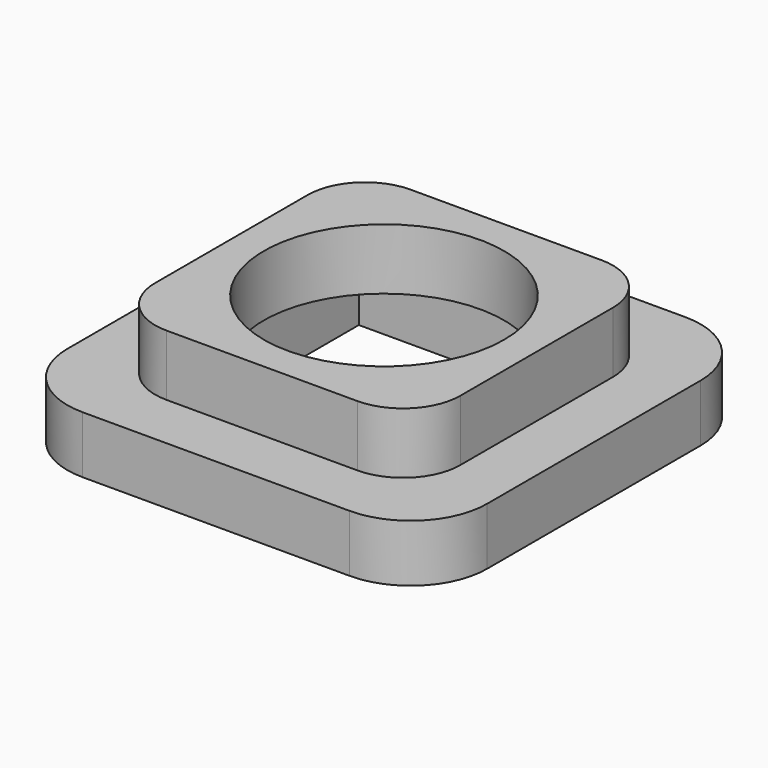
from build123d import *

# Parameters (mm, degrees)
F0_W     = 6.6
F0_H     = 6.6
F0_R     = 3.15
F1_DEPTH = 1.5
F2_DEPTH = 3.1
F3_DEPTH = 3.101
F4_DEPTH = 1.5


with BuildPart() as f1:
    # F0 (on Top) → F1 (new body)
    with BuildSketch(Plane.XY):
        with BuildLine():
            Line((3.5, 5.5), (-3.5, 5.5))
            ThreePointArc((-3.5, 5.5), (-4.914214, 4.914214), (-5.5, 3.5))
            Line((-5.5, 3.5), (-5.5, -3.5))
            ThreePointArc((-5.5, -3.5), (-4.914214, -4.914214), (-3.5, -5.5))
            Line((-3.5, -5.5), (3.5, -5.5))
            ThreePointArc((3.5, -5.5), (4.914214, -4.914214), (5.5, -3.5))
            Line((5.5, -3.5), (5.5, 3.5))
            ThreePointArc((5.5, 3.5), (4.914214, 4.914214), (3.5, 5.5))
        make_face()
        with BuildLine():
            ThreePointArc((-4, 2.5), (-3.56066, 3.56066), (-2.5, 4))
            Line((-2.5, 4), (2.5, 4))
            ThreePointArc((2.5, 4), (3.56066, 3.56066), (4, 2.5))
            Line((4, 2.5), (4, -2.5))
            ThreePointArc((4, -2.5), (3.56066, -3.56066), (2.5, -4))
            Line((2.5, -4), (-2.5, -4))
            ThreePointArc((-2.5, -4), (-3.56066, -3.56066), (-4, -2.5))
            Line((-4, -2.5), (-4, 2.5))
        make_face(mode=Mode.SUBTRACT)
        with BuildLine():
            Line((2.5, 4), (-2.5, 4))
            ThreePointArc((-2.5, 4), (-3.56066, 3.56066), (-4, 2.5))
            Line((-4, 2.5), (-4, -2.5))
            ThreePointArc((-4, -2.5), (-3.56066, -3.56066), (-2.5, -4))
            Line((-2.5, -4), (2.5, -4))
            ThreePointArc((2.5, -4), (3.56066, -3.56066), (4, -2.5))
            Line((4, -2.5), (4, 2.5))
            ThreePointArc((4, 2.5), (3.56066, 3.56066), (2.5, 4))
        make_face()
        Rectangle(F0_W, F0_H, mode=Mode.SUBTRACT)
        Rectangle(F0_W, F0_H)
        Circle(F0_R, mode=Mode.SUBTRACT)
        Circle(F0_R)
    extrude(amount=F1_DEPTH)

    # F0 (on Top) → F2 (join)
    with BuildSketch(Plane.XY):
        with BuildLine():
            Line((2.5, 4), (-2.5, 4))
            ThreePointArc((-2.5, 4), (-3.56066, 3.56066), (-4, 2.5))
            Line((-4, 2.5), (-4, -2.5))
            ThreePointArc((-4, -2.5), (-3.56066, -3.56066), (-2.5, -4))
            Line((-2.5, -4), (2.5, -4))
            ThreePointArc((2.5, -4), (3.56066, -3.56066), (4, -2.5))
            Line((4, -2.5), (4, 2.5))
            ThreePointArc((4, 2.5), (3.56066, 3.56066), (2.5, 4))
        make_face()
        Rectangle(F0_W, F0_H, mode=Mode.SUBTRACT)
        Rectangle(F0_W, F0_H)
        Circle(F0_R, mode=Mode.SUBTRACT)
        Circle(F0_R)
    extrude(amount=F2_DEPTH)

    # F0 (on Top) → F3 (cut, through all)
    with BuildSketch(Plane.XY):
        Circle(F0_R)
    extrude(amount=F3_DEPTH, mode=Mode.SUBTRACT)

    # F0 (on Top) → F4 (cut)
    with BuildSketch(Plane.XY):
        Rectangle(F0_W, F0_H)
        Circle(F0_R, mode=Mode.SUBTRACT)
        Circle(F0_R)
    extrude(amount=F4_DEPTH, mode=Mode.SUBTRACT)


solid = f1.part
